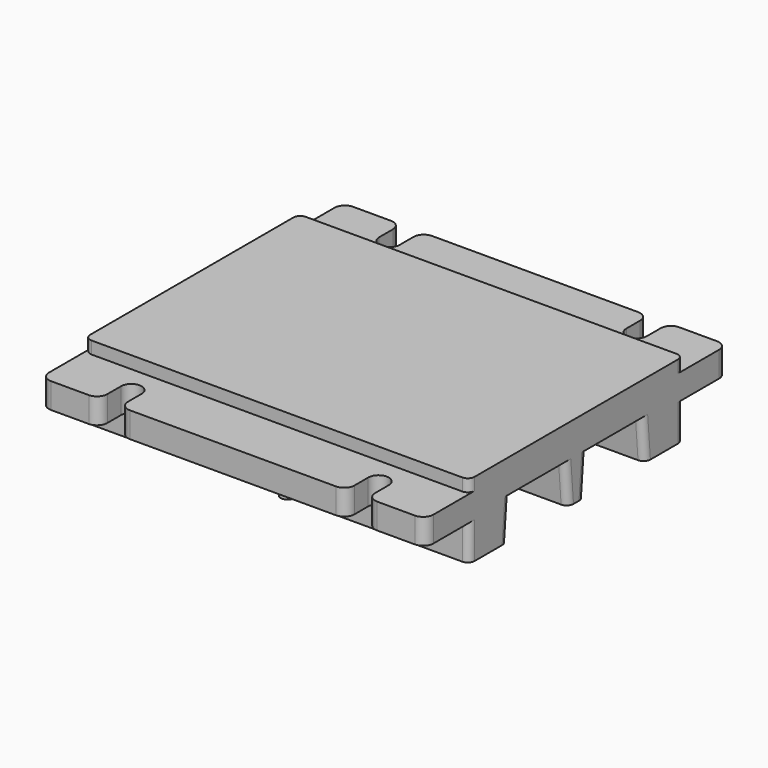
from build123d import *

# Parameters (mm, degrees)
F0_W     = 8
F0_H     = 3.7
F1_DEPTH = 56
F3_W     = 56
F3_H     = 39
F4_DEPTH = 1.8
F5_DEPTH = 25
F6_R     = 1
F7_R     = 1.5
F8_R     = 1
F9_DEPTH = 2


with BuildPart() as f1:
    # F0 (on Right) → F1 (new body)
    with BuildSketch(Plane.YZ):
        Polygon((-1.5, 0), (0, 0), (0, 9), (-19.5, 9), (-19.5, 5.3), (-19.5, 0), (-12.5, 0), (-12, 6), (-2, 6), align=None)
        with Locations((-23.5, 7.15)):
            Rectangle(F0_W, F0_H)
        Polygon((0, 9), (0, 0), (1.5, 0), (2, 6), (12, 6), (12.5, 0), (19.5, 0), (19.5, 5.3), (19.5, 9), align=None)
        with Locations((23.5, 7.15)):
            Rectangle(F0_W, F0_H)
    extrude(amount=F1_DEPTH)

    # F3 (on face) → F4 (join)
    with BuildSketch(Plane.XY.offset(9)):
        with Locations((28, 0)):
            Rectangle(F3_W, F3_H)
    extrude(amount=F4_DEPTH)

    # F2 (on face) → F5 (cut)
    with BuildSketch(Plane.XY.offset(9)):
        with BuildLine():
            Line((11.5, -27.5), (11.5, -23.5))
            ThreePointArc((11.5, -23.5), (10, -25), (8.5, -23.5))
            Line((8.5, -23.5), (8.5, -27.5))
            Line((8.5, -27.5), (11.5, -27.5))
        make_face()
        with BuildLine():
            ThreePointArc((8.5, -23.5), (10, -25), (11.5, -23.5))
            ThreePointArc((11.5, -23.5), (10, -22), (8.5, -23.5))
        make_face()
        with BuildLine():
            Line((44.5, -23.5), (44.5, -27.5))
            Line((44.5, -27.5), (47.5, -27.5))
            Line((47.5, -27.5), (47.5, -23.5))
            ThreePointArc((47.5, -23.5), (46, -25), (44.5, -23.5))
        make_face()
        with BuildLine():
            ThreePointArc((47.5, -23.5), (46, -22), (44.5, -23.5))
            ThreePointArc((44.5, -23.5), (46, -25), (47.5, -23.5))
        make_face()
        with BuildLine():
            Line((11.5, 27.5), (8.5, 27.5))
            Line((8.5, 27.5), (8.5, 23.5))
            ThreePointArc((8.5, 23.5), (10, 25), (11.5, 23.5))
            Line((11.5, 23.5), (11.5, 27.5))
        make_face()
        with BuildLine():
            ThreePointArc((11.5, 23.5), (10, 25), (8.5, 23.5))
            ThreePointArc((8.5, 23.5), (10, 22), (11.5, 23.5))
        make_face()
        with BuildLine():
            ThreePointArc((44.5, 23.5), (46, 22), (47.5, 23.5))
            ThreePointArc((47.5, 23.5), (46, 25), (44.5, 23.5))
        make_face()
        with BuildLine():
            Line((47.5, 23.5), (47.5, 27.5))
            Line((47.5, 27.5), (44.5, 27.5))
            Line((44.5, 27.5), (44.5, 23.5))
            ThreePointArc((44.5, 23.5), (46, 25), (47.5, 23.5))
        make_face()
    extrude(amount=-F5_DEPTH, mode=Mode.SUBTRACT)

    # F6
    f6_edges = [f1.edges().sort_by_distance(p)[0] for p in [
        (56, 19.5, 2.65),
        (56, 12.25, 3),
        (56, 1.75, 3),
        (56, -1.75, 3),
        (56, -12.25, 3),
        (56, -19.5, 2.65),
        (56, 19.5, 9.9),
        (56, -19.5, 9.9),
        (0, 19.5, 2.65),
        (0, 12.25, 3),
        (0, 1.75, 3),
        (0, -1.75, 3),
        (0, 19.5, 9.9),
        (0, -12.25, 3),
        (0, -19.5, 2.65),
        (0, -19.5, 9.9),
    ]]
    fillet(f6_edges, radius=F6_R)

    # F7
    f7_edges = [f1.edges().sort_by_distance(p)[0] for p in [
        (0, -27.5, 7.15),
        (8.5, -27.5, 7.15),
        (11.5, -27.5, 7.15),
        (47.5, -27.5, 7.15),
        (44.5, -27.5, 7.15),
        (56, -27.5, 7.15),
        (0, 27.5, 7.15),
        (8.5, 27.5, 7.15),
        (11.5, 27.5, 7.15),
        (44.5, 27.5, 7.15),
        (47.5, 27.5, 7.15),
        (56, 27.5, 7.15),
    ]]
    fillet(f7_edges, radius=F7_R)

    # F8 (on face) → F9 (join)
    with BuildSketch(Plane(origin=(0, 0, 0), x_dir=(1, 0, 0), z_dir=(0, 0, -1))):
        with Locations((38, 0)):
            Circle(F8_R)
        with Locations((18, 0)):
            Circle(F8_R)
        with Locations((26.9247623258, 16.2018900485)):
            Circle(F8_R)
        with Locations((27.9158912599, -15.5527964234)):
            Circle(F8_R)
    extrude(amount=F9_DEPTH)


solid = f1.part
